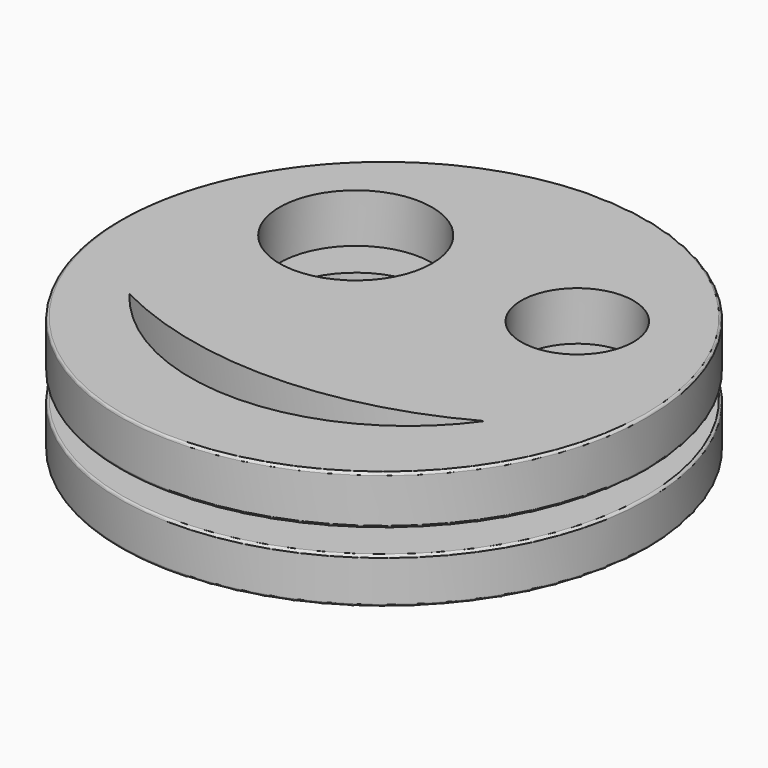
from build123d import *

# Parameters (mm, degrees)
F0_R     = 28.3768649986
F0_R_2   = 8.1963755189
F0_R_3   = 6.0308885492
F1_DEPTH = 12.7
F2_W     = 110.4900132516
F2_H     = 2.54
F3_DEPTH = 39.96657
F4_R     = 0.254


with BuildPart() as f1:
    # F0 (on Top) → F1 (new body)
    with BuildSketch(Plane.XY):
        Circle(F0_R)
        with BuildLine():
            ThreePointArc((18.4300914407, -9.5075871795), (-0.2907087951, -19.3528018979), (-19.3077158183, -10.0926691666))
            ThreePointArc((-19.3077158183, -10.0926691666), (-0.3662766969, -14.478669765), (18.4300914407, -9.5075871795))
        make_face(mode=Mode.SUBTRACT)
        with Locations((-11.1165624112, 10.0926691666)):
            Circle(F0_R_2, mode=Mode.SUBTRACT)
        with Locations((13.1643526256, 9.5075871795)):
            Circle(F0_R_3, mode=Mode.SUBTRACT)
        Circle(F0_R)
        with BuildLine():
            ThreePointArc((18.4300914407, -9.5075871795), (-0.2907087951, -19.3528018979), (-19.3077158183, -10.0926691666))
            ThreePointArc((-19.3077158183, -10.0926691666), (-0.3662766969, -14.478669765), (18.4300914407, -9.5075871795))
        make_face(mode=Mode.SUBTRACT)
        with Locations((-11.1165624112, 10.0926691666)):
            Circle(F0_R_2, mode=Mode.SUBTRACT)
        with Locations((13.1643526256, 9.5075871795)):
            Circle(F0_R_3, mode=Mode.SUBTRACT)
    extrude(amount=F1_DEPTH)

    # F2 (on Front) → F3 (cut, symmetric)
    with BuildSketch(Plane.XZ):
        with Locations((1.1265333742, 6.1731699388)):
            Rectangle(F2_W, F2_H)
    extrude(amount=F3_DEPTH, both=True, mode=Mode.SUBTRACT)

    # F4
    f4_edges = [f1.edges().sort_by_distance(p)[0] for p in [
        (-28.376865, 0, 12.7),
        (-28.376865, 0, 0),
        (-28.376865, 0, 7.44317),
        (-28.376865, 0, 4.90317),
    ]]
    fillet(f4_edges, radius=F4_R)


solid = f1.part
